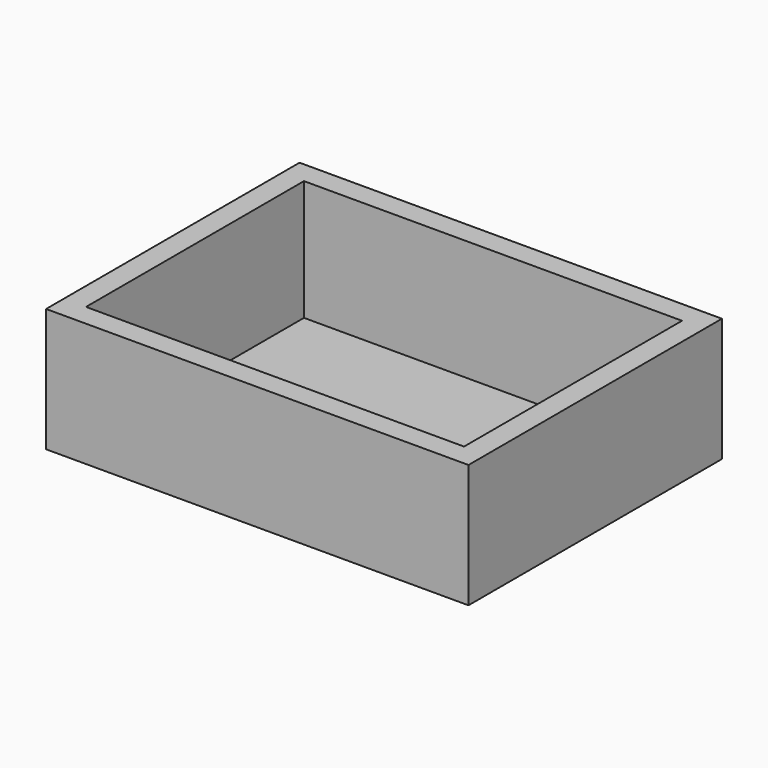
from build123d import *

# Parameters (mm, degrees)
SKETCH_W     = 400
SKETCH_H     = 300
PAD_DEPTH    = 117
SKETCH001_W  = 358
SKETCH001_H  = 258
POCKET_DEPTH = 114


with BuildPart() as part:
    # Sketch → Pad (new body)
    with BuildSketch(Plane.XY):
        with Locations((200, 150)):
            Rectangle(SKETCH_W, SKETCH_H)
    extrude(amount=PAD_DEPTH)

    # Sketch001 (on Face6 of Pad) → Pocket (cut)
    with BuildSketch(Plane.XY.offset(117)):
        with Locations((200, 150)):
            Rectangle(SKETCH001_W, SKETCH001_H)
    extrude(amount=-POCKET_DEPTH, mode=Mode.SUBTRACT)


solid = part.part
